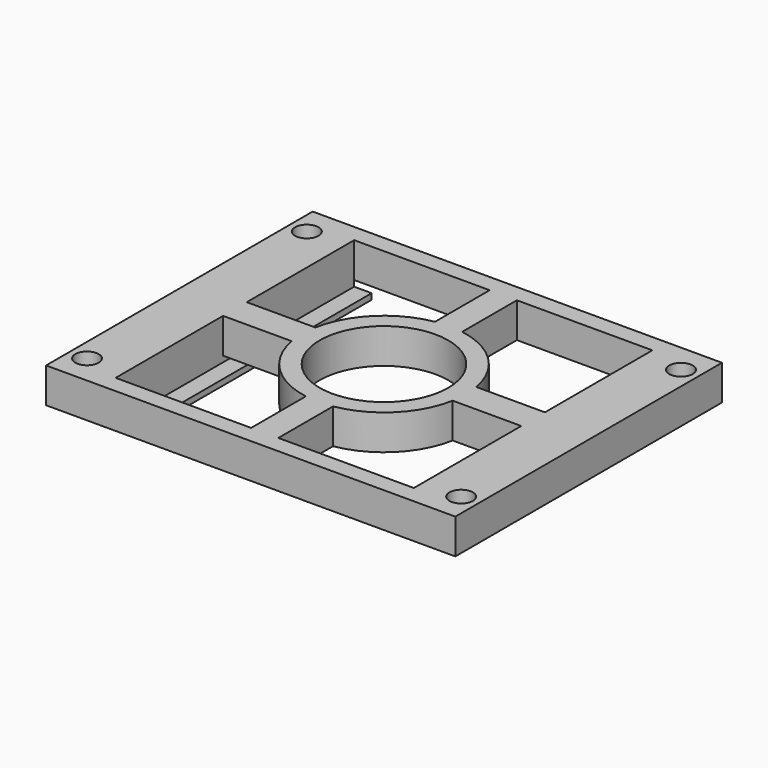
from build123d import *

# Parameters (mm, degrees)
F0_R      = 14
F0_R_2    = 11
F1_DEPTH  = 6
F2_W      = 57
F2_H      = 57
F3_DEPTH  = 6
F5_W      = 3
F5_H      = 50.979116
F5_H_2    = 51
F6_DEPTH  = 1
F7_W      = 6
F7_H      = 50.96702
F7_W_2    = 3
F7_H_2    = 50.979116
F8_DEPTH  = 1
F9_W      = 6.5
F9_H      = 57
F9_R      = 2
F10_DEPTH = 6


with BuildPart() as f1:
    # F0 (on Top) → F1 (new body)
    with BuildSketch(Plane.XY):
        Circle(F0_R)
        Circle(F0_R_2, mode=Mode.SUBTRACT)
    extrude(amount=F1_DEPTH)


with BuildPart() as f3:
    # F2 (on face) → F3 (new body)
    with BuildSketch(Plane(origin=(0, 0, 0), x_dir=(1, 0, 0), z_dir=(0, 0, -1))):
        Rectangle(F2_W, F2_H)
        Polygon((25.5, -2.533051), (25.5, -25.5), (2.32699, -25.5), (-2.32699, -25.5), (-25.5, -25.5), (-25.5, -2.533051), (-25.5, 2.533051), (-25.5, 25.5), (-2.32699, 25.5), (2.32699, 25.5), (25.5, 25.5), (25.5, 2.533051), align=None, mode=Mode.SUBTRACT)
        with BuildLine():
            Line((2.32699, 13.805257), (2.32699, 25.5))
            Line((2.32699, 25.5), (-2.32699, 25.5))
            Line((-2.32699, 25.5), (-2.32699, 13.805257))
            ThreePointArc((-2.32699, 13.805257), (0, 14), (2.32699, 13.805257))
        make_face()
        with BuildLine():
            Line((-25.5, 2.533051), (-25.5, -2.533051))
            Line((-25.5, -2.533051), (-13.768938, -2.533051))
            ThreePointArc((-13.768938, -2.533051), (-14, 0), (-13.768938, 2.533051))
            Line((-13.768938, 2.533051), (-25.5, 2.533051))
        make_face()
        with BuildLine():
            Line((-2.32699, -25.5), (2.32699, -25.5))
            Line((2.32699, -25.5), (2.32699, -13.805257))
            ThreePointArc((2.32699, -13.805257), (0, -14), (-2.32699, -13.805257))
            Line((-2.32699, -13.805257), (-2.32699, -25.5))
        make_face()
        with BuildLine():
            Line((13.768938, -2.533051), (25.5, -2.533051))
            Line((25.5, -2.533051), (25.5, 2.533051))
            Line((25.5, 2.533051), (13.768938, 2.533051))
            ThreePointArc((13.768938, 2.533051), (13.942115, 1.271784), (14, 0))
            ThreePointArc((14, 0), (13.942115, -1.271784), (13.768938, -2.533051))
        make_face()
    extrude(amount=-F3_DEPTH)


with BuildPart() as f1_1:
    add(f1.part)

    # F4: union F3
    add(f3.part)

    # F5 (on face) → F6 (join)
    with BuildSketch(Plane(origin=(0, 0, 0), x_dir=(1, 0, 0), z_dir=(0, 0, -1))):
        with Locations((27, -0.010442)):
            Rectangle(F5_W, F5_H)
        with Locations((-27, 0)):
            Rectangle(F5_W, F5_H_2)
    extrude(amount=F6_DEPTH)

    # F7 (on face) → F8 (join)
    with BuildSketch(Plane(origin=(0, 0, -1), x_dir=(1, 0, 0), z_dir=(0, 0, -1))):
        with Locations((-25.5, -0.004394)):
            Rectangle(F7_W, F7_H)
        with Locations((24, -0.010442)):
            Rectangle(F7_W_2, F7_H_2)
        with Locations((27, -0.010442)):
            Rectangle(F7_W_2, F7_H_2)
    extrude(amount=F8_DEPTH)

    # F9 (on Top) → F10 (join)
    with BuildSketch(Plane.XY):
        with Locations((-31.75, 0)):
            Rectangle(F9_W, F9_H)
        with Locations((-32, -23.5)):
            Circle(F9_R, mode=Mode.SUBTRACT)
        with Locations((-32, 23.5)):
            Circle(F9_R, mode=Mode.SUBTRACT)
        with Locations((31.75, 0)):
            Rectangle(F9_W, F9_H)
        with Locations((32, -23.5)):
            Circle(F9_R, mode=Mode.SUBTRACT)
        with Locations((32, 23.5)):
            Circle(F9_R, mode=Mode.SUBTRACT)
    extrude(amount=F10_DEPTH)


solid = f1_1.part
